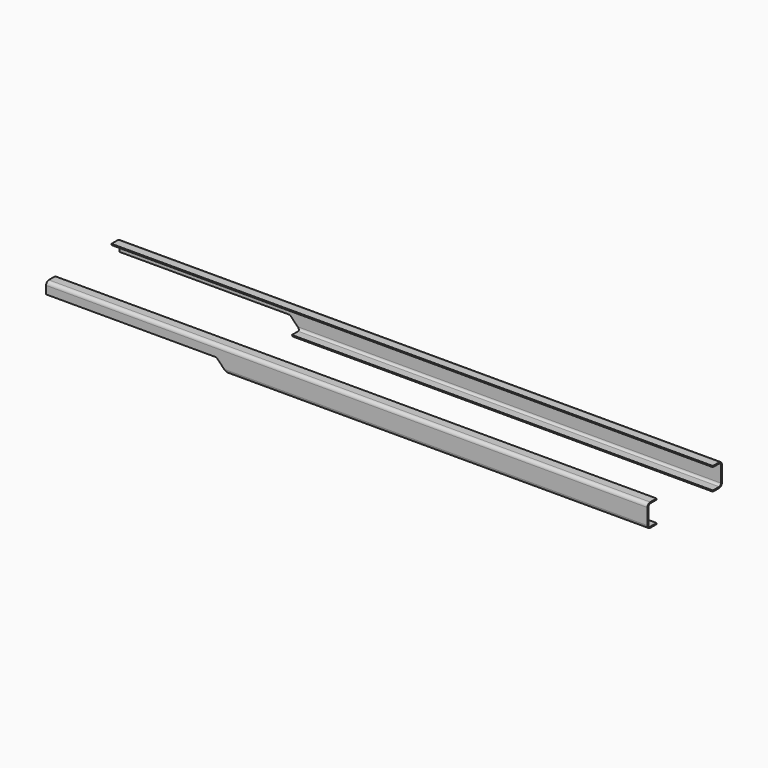
from build123d import *

# Parameters (mm, degrees)
BOX194_W        = 150
BOX194_H        = 82
BOX194_DEPTH    = 10
BOX195_W        = 20
BOX195_H        = 82
BOX195_DEPTH    = 20
CHAMFER017_SIZE = 19
BOX211_W        = 70
BOX211_H        = 82
BOX211_DEPTH    = 20
BOX196_W        = 600
BOX196_H        = 10
BOX196_DEPTH    = 18
FILLET074_R     = 2
BOX197_W        = 600
BOX197_H        = 10
BOX197_DEPTH    = 18
FILLET073_R     = 2
BOX192_W        = 600
BOX192_H        = 10
BOX192_DEPTH    = 20
BOX193_W        = 600
BOX193_H        = 10
BOX193_DEPTH    = 20
FILLET075_R     = 3


with BuildPart() as box194:
    # Box194 → Box194 (new body)
    with BuildSketch(Plane(origin=(0, -10, 0), x_dir=(1, 0, 0), z_dir=(0, 0, 1))):
        with Locations((75, 41)):
            Rectangle(BOX194_W, BOX194_H)
    extrude(amount=BOX194_DEPTH)


with BuildPart() as fusion219:
    # Box195 → Box195 (new body)
    with BuildSketch(Plane(origin=(137, -10, -10), x_dir=(1, 0, 0), z_dir=(0, 0, 1))):
        with Locations((10, 41)):
            Rectangle(BOX195_W, BOX195_H)
    extrude(amount=BOX195_DEPTH)

    # Chamfer017
    chamfer017_edges = [fusion219.edges().sort_by_distance(p)[0] for p in [
        (157, 31, 10),
    ]]
    chamfer(chamfer017_edges, length=CHAMFER017_SIZE)


with BuildPart() as fusion219_1:
    # Chamfer017 placement: moved
    add(fusion219.part.moved(Location((12, 0, 0))))

    # Fusion219: union Box194
    add(box194.part)


with BuildPart() as fusion219_2:
    # Fusion219 placement: moved
    add(fusion219_1.part.moved(Location((70, 0, 0))))


with BuildPart() as fusion245:
    # Box211 → Box211 (new body)
    with BuildSketch(Plane(origin=(0, -10, 0), x_dir=(1, 0, 0), z_dir=(0, 0, 1))):
        with Locations((35, 41)):
            Rectangle(BOX211_W, BOX211_H)
    extrude(amount=BOX211_DEPTH)

    # Fusion245: union Fusion219
    add(fusion219_2.part)


with BuildPart() as fillet074:
    # Box196 → Box196 (new body)
    with BuildSketch(Plane(origin=(0, 1, 1), x_dir=(1, 0, 0), z_dir=(0, 0, 1))):
        with Locations((300, 5)):
            Rectangle(BOX196_W, BOX196_H)
    extrude(amount=BOX196_DEPTH)

    # Fillet074
    fillet074_edges = [fillet074.edges().sort_by_distance(p)[0] for p in [
        (300, 1, 1),
        (300, 1, 19),
    ]]
    fillet(fillet074_edges, radius=FILLET074_R)


with BuildPart() as fillet074_1:
    # Fillet074 placement: moved
    add(fillet074.part.moved(Location((0, -10, 0))))


with BuildPart() as fusion218:
    # Box197 → Box197 (new body)
    with BuildSketch(Plane(origin=(0, 51, 1), x_dir=(1, 0, 0), z_dir=(0, 0, 1))):
        with Locations((300, 5)):
            Rectangle(BOX197_W, BOX197_H)
    extrude(amount=BOX197_DEPTH)

    # Fillet073
    fillet073_edges = [fusion218.edges().sort_by_distance(p)[0] for p in [
        (300, 61, 1),
        (300, 61, 19),
    ]]
    fillet(fillet073_edges, radius=FILLET073_R)


with BuildPart() as fusion218_1:
    # Fillet073 placement: moved
    add(fusion218.part.moved(Location((0, 10, 0))))

    # Fusion218: union Fillet074
    add(fillet074_1.part)


with BuildPart() as box192:
    # Box192 → Box192 (new body)
    with BuildSketch(Plane(origin=(0, -10, 0), x_dir=(1, 0, 0), z_dir=(0, 0, 1))):
        with Locations((300, 5)):
            Rectangle(BOX192_W, BOX192_H)
    extrude(amount=BOX192_DEPTH)


with BuildPart() as frame_wide_metal:
    # Box193 → Box193 (new body)
    with BuildSketch(Plane(origin=(0, 62, 0), x_dir=(1, 0, 0), z_dir=(0, 0, 1))):
        with Locations((300, 5)):
            Rectangle(BOX193_W, BOX193_H)
    extrude(amount=BOX193_DEPTH)

    # Fusion216: union Box192
    add(box192.part)

    # Fillet075
    fillet075_edges = [frame_wide_metal.edges().sort_by_distance(p)[0] for p in [
        (300, 72, 0),
        (300, 72, 20),
        (300, -10, 0),
        (300, -10, 20),
    ]]
    fillet(fillet075_edges, radius=FILLET075_R)

    # Cut199: cut Fusion218
    add(fusion218_1.part, mode=Mode.SUBTRACT)

    # Cut221: cut Fusion245
    add(fusion245.part, mode=Mode.SUBTRACT)


solid = frame_wide_metal.part
